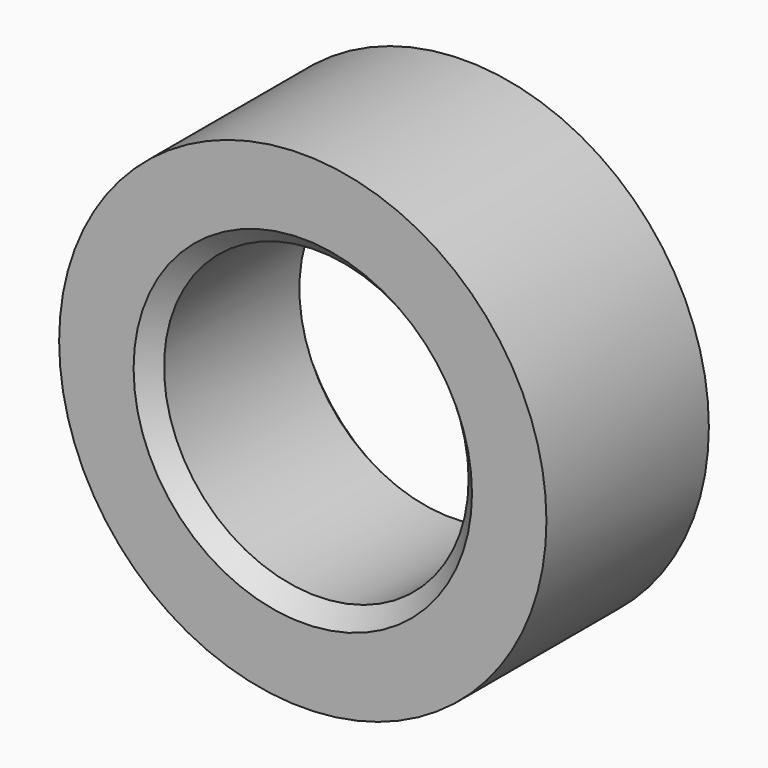
from build123d import *

# Parameters (mm, degrees)
F0_R     = 7.2
F0_R_2   = 4.5
F1_DEPTH = 6
F2_SIZE  = 0.5


with BuildPart() as f1:
    # F0 (on Front) → F1 (new body)
    with BuildSketch(Plane.XZ):
        Circle(F0_R)
        Circle(F0_R_2, mode=Mode.SUBTRACT)
    extrude(amount=F1_DEPTH)

    # F2
    f2_edges = [f1.edges().sort_by_distance(p)[0] for p in [
        (-4.5, -6, 0),
        (-4.5, 0, 0),
    ]]
    chamfer(f2_edges, length=F2_SIZE)


solid = f1.part
